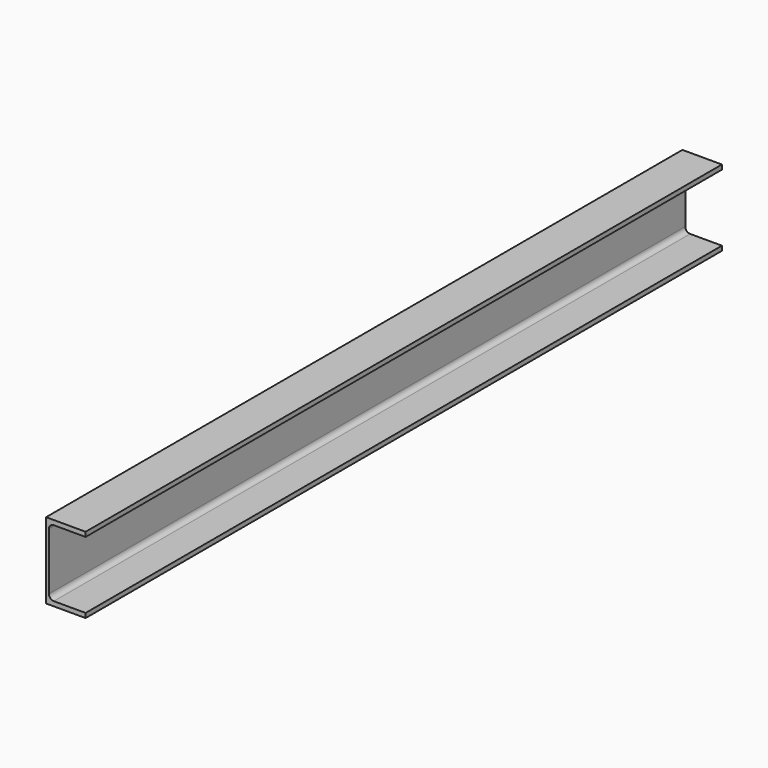
from build123d import *

# Parameters (mm, degrees)
F1_DEPTH = 1308


with BuildPart() as f1:
    # F0 (on Front) → F1 (new body)
    with BuildSketch(Plane.XZ):
        with BuildLine():
            Line((-25.16784, 62.5), (-25.16784, -62.5))
            Line((-25.16784, -62.5), (39.83216, -62.5))
            Line((39.83216, -62.5), (39.83216, -55))
            Line((39.83216, -55), (-12.46784, -55))
            ThreePointArc((-12.46784, -55), (-18.124695, -52.656854), (-20.46784, -47))
            Line((-20.46784, -47), (-20.46784, 47))
            ThreePointArc((-20.46784, 47), (-18.124695, 52.656854), (-12.46784, 55))
            Line((-12.46784, 55), (39.83216, 55))
            Line((39.83216, 55), (39.83216, 62.5))
            Line((39.83216, 62.5), (-25.16784, 62.5))
        make_face()
    extrude(amount=F1_DEPTH)


solid = f1.part
